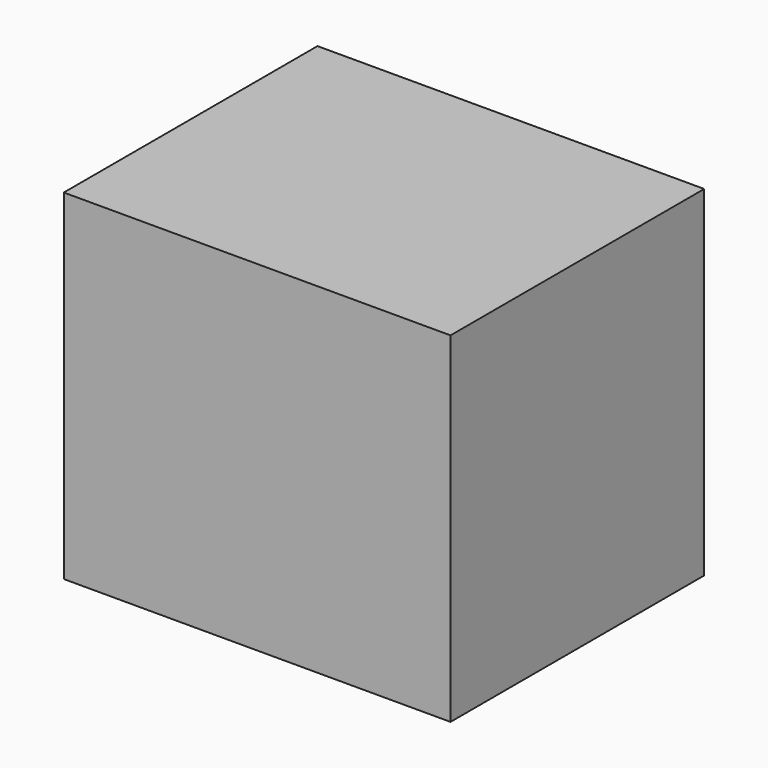
from build123d import *

# Parameters (mm, degrees)
F0_W     = 500
F0_H     = 410
F1_DEPTH = 410
F2_T     = -30
F3_W     = 500
F3_H     = 410
F4_DEPTH = 30


with BuildPart() as f1:
    # F0 (on Front) → F1 (new body)
    with BuildSketch(Plane.XZ):
        Rectangle(F0_W, F0_H)
    extrude(amount=-F1_DEPTH)

    # F2
    f2_openings = [f1.faces().sort_by_distance(p)[0] for p in [
        (0, 205, 205),
    ]]
    offset(amount=F2_T, openings=f2_openings)

    # F3 (on face) → F4 (join)
    with BuildSketch(Plane.XY.offset(205)):
        with Locations((0, 205)):
            Rectangle(F3_W, F3_H)
    extrude(amount=F4_DEPTH)


solid = f1.part
